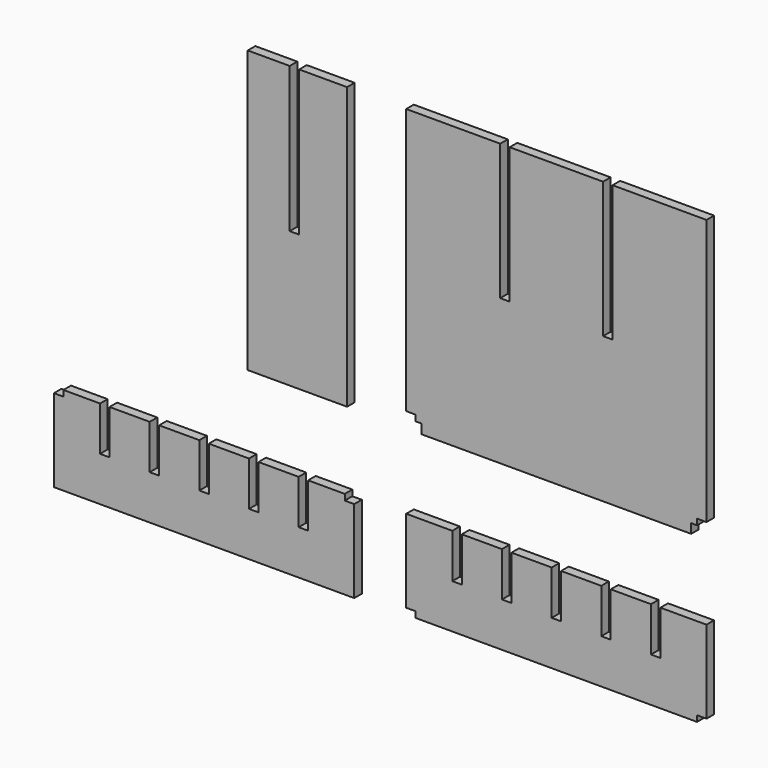
from build123d import *

# Parameters (mm, degrees)
F1_DEPTH = 1.6


with BuildPart() as f1:
    # F0 (on Front) → F1 (new body)
    with BuildSketch(Plane.XZ):
        Polygon((-22.883454, 27.679576), (-6.083454, 27.679576), (-6.083454, 75.279576), (-14.183454, 75.279576), (-14.183454, 50.679576), (-15.783454, 50.679576), (-15.783454, 75.279576), (-22.883454, 75.279576), align=None)
        Polygon((11.722261, 15), (3.922261, 15), (3.922261, 1), (5.522261, 1), (5.522261, 0), (53.122261, 0), (53.122261, 1), (54.722261, 1), (54.722261, 15), (46.922261, 15), (46.922261, 7.5), (45.322261, 7.5), (45.322261, 15), (38.522261, 15), (38.522261, 7.5), (36.922261, 7.5), (36.922261, 15), (30.122261, 15), (30.122261, 7.5), (28.522261, 7.5), (28.522261, 15), (21.722261, 15), (21.722261, 7.5), (20.122261, 7.5), (20.122261, 15), (13.322261, 15), (13.322261, 7.5), (11.722261, 7.5), align=None)
        Polygon((-47.872082, 14.579576), (-54.072082, 14.579576), (-54.072082, 13.579576), (-55.672082, 13.579576), (-55.672082, -0.420424), (-4.872082, -0.420424), (-4.872082, 13.579576), (-6.472082, 13.579576), (-6.472082, 14.579576), (-12.672082, 14.579576), (-12.672082, 7.079576), (-14.272082, 7.079576), (-14.272082, 14.579576), (-21.072082, 14.579576), (-21.072082, 7.079576), (-22.672082, 7.079576), (-22.672082, 14.579576), (-29.472082, 14.579576), (-29.472082, 7.079576), (-31.072082, 7.079576), (-31.072082, 14.579576), (-37.872082, 14.579576), (-37.872082, 7.079576), (-39.472082, 7.079576), (-39.472082, 14.579576), (-46.272082, 14.579576), (-46.272082, 7.079576), (-47.872082, 7.079576), align=None)
        Polygon((19.822261, 75.279576), (3.922261, 75.279576), (3.922261, 30.279576), (5.522261, 30.279576), (5.522261, 29.279576), (6.522261, 29.279576), (6.522261, 27.679576), (52.122261, 27.679576), (52.122261, 29.279576), (53.122261, 29.279576), (53.122261, 30.279576), (54.722261, 30.279576), (54.722261, 75.279576), (38.822261, 75.279576), (38.822261, 52.279576), (37.222261, 52.279576), (37.222261, 75.279576), (21.422261, 75.279576), (21.422261, 52.279576), (19.822261, 52.279576), align=None)
    extrude(amount=F1_DEPTH)


solid = f1.part
